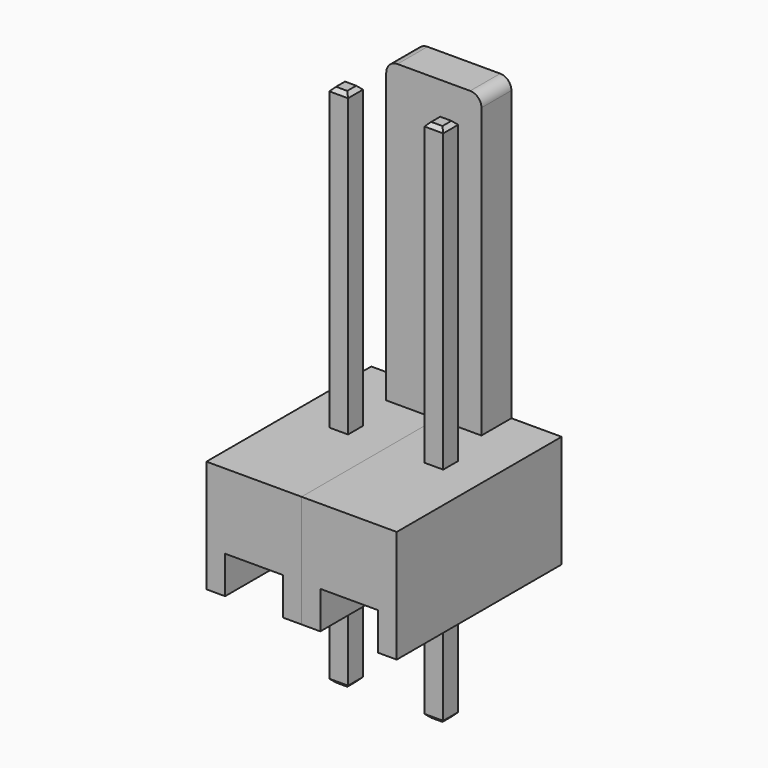
from build123d import *

# Parameters (mm, degrees)
PAD_DEPTH        = 5.5
ARRAY_X_COUNT    = 2
ARRAY_X_PITCH    = 2.54
SKETCH001_W      = 0.5
SKETCH001_H      = 0.5
PAD001_DEPTH     = 14
CHAMFER_SIZE     = 0.1
ARRAY001_X_COUNT = 2
ARRAY001_X_PITCH = 2.54
SKETCH002_W      = 2.54
SKETCH002_H      = 8
PAD002_DEPTH     = 1
FILLET_R         = 0.3


with BuildPart() as array:
    # Sketch → Pad (new body)
    with BuildSketch(Plane.XZ):
        Polygon((0, 0), (0, 3), (2.54, 3), (2.54, 0), (2.04, 0), (2.04, 1), (0.5, 1), (0.5, 0), align=None)
    extrude(amount=PAD_DEPTH)


with BuildPart() as array_copy1:
    # Array X: instance of Array
    add(array.part.moved(Location(Vector(1, 0, 0) * (1 * ARRAY_X_PITCH))))


with BuildPart() as array001:
    # Sketch001 → Pad001 (new body)
    with BuildSketch(Plane.XY.offset(-3)):
        with Locations((1.29, -2.45)):
            Rectangle(SKETCH001_W, SKETCH001_H)
    extrude(amount=PAD001_DEPTH)

    # Chamfer
    chamfer_edges = [array001.edges().sort_by_distance(p)[0] for p in [
        (1.29, -2.2, 11),
        (1.54, -2.45, 11),
        (1.29, -2.7, 11),
        (1.04, -2.45, 11),
        (1.29, -2.2, -3),
        (1.54, -2.45, -3),
        (1.29, -2.7, -3),
        (1.04, -2.45, -3),
    ]]
    chamfer(chamfer_edges, length=CHAMFER_SIZE)

    # Array001 X: Array001 ×2


with BuildPart() as array001_1:
    add(array001.part)
    with Locations(*[(i * ARRAY001_X_PITCH, 0, 0) for i in range(1, ARRAY001_X_COUNT)]):
        add(array001.part)


with BuildPart() as fillet_body:
    # Sketch002 → Pad002 (new body)
    with BuildSketch(Plane.XZ):
        with Locations((2.47, 7)):
            Rectangle(SKETCH002_W, SKETCH002_H)
    extrude(amount=PAD002_DEPTH)

    # Fillet
    fillet_edges = [fillet_body.edges().sort_by_distance(p)[0] for p in [
        (1.2, -0.5, 11),
        (3.74, -0.5, 11),
    ]]
    fillet(fillet_edges, radius=FILLET_R)


solid = Compound([array.part, array_copy1.part, array001_1.part, fillet_body.part])
